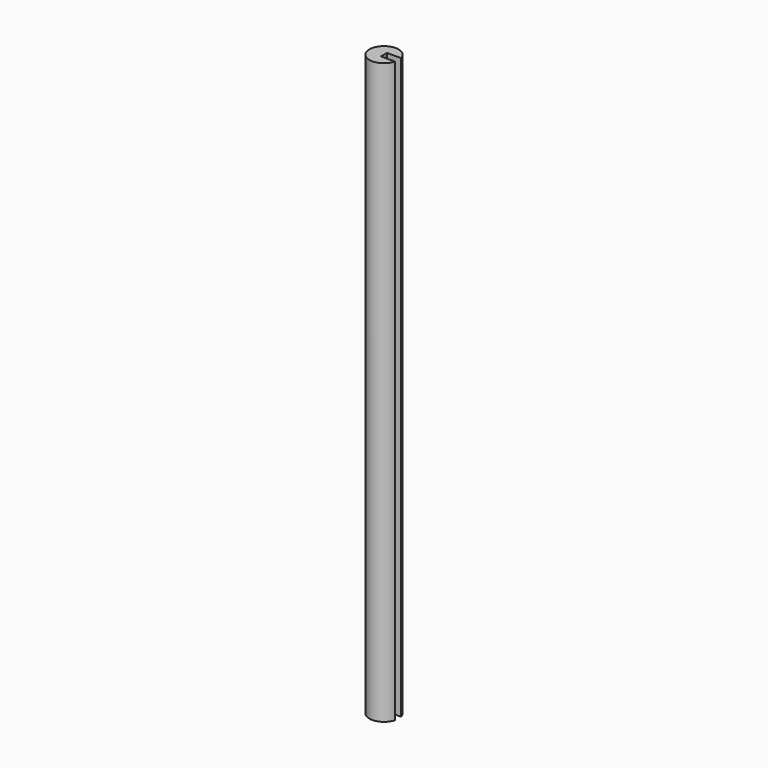
from build123d import *

# Parameters (mm, degrees)
SKETCH_R     = 2.5
PAD_DEPTH    = 100
SKETCH001_W  = 3
SKETCH001_H  = 1.3
POCKET_DEPTH = 100


with BuildPart() as part:
    # Sketch → Pad (new body)
    with BuildSketch(Plane.XY):
        Circle(SKETCH_R)
    extrude(amount=PAD_DEPTH)

    # Sketch001 (on Face3 of Pad) → Pocket (cut)
    with BuildSketch(Plane.XY.offset(100)):
        with Locations((1.5, 0)):
            Rectangle(SKETCH001_W, SKETCH001_H)
    extrude(amount=-POCKET_DEPTH, mode=Mode.SUBTRACT)


solid = part.part
